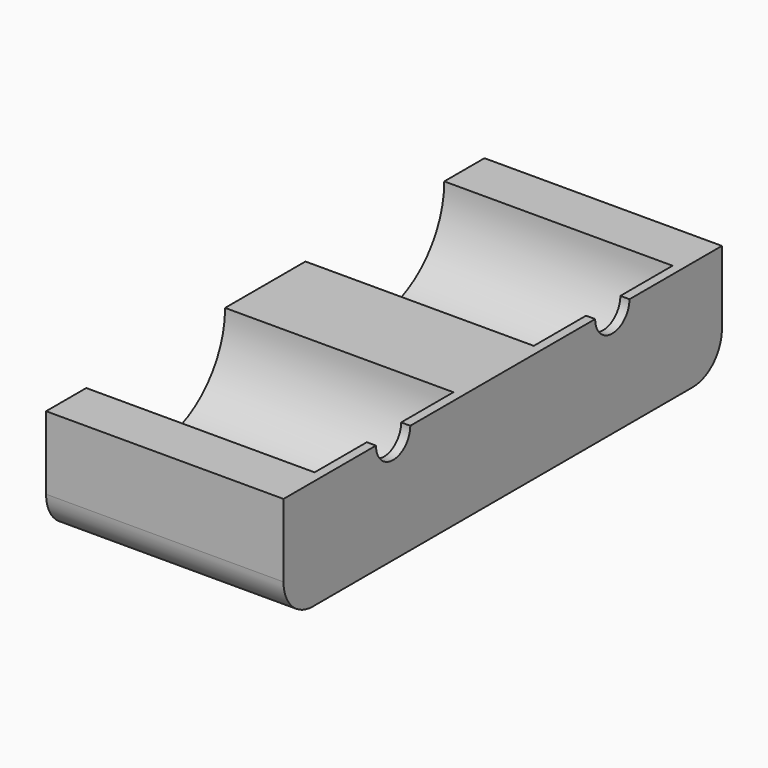
from build123d import *

# Parameters (mm, degrees)
F0_W     = 76.2
F0_H     = 15.24
F1_DEPTH = 33.02
F2_R     = 12.065
F3_DEPTH = 31.75
F4_R     = 2.9845
F5_DEPTH = 50.8
F6_R     = 5.08


with BuildPart() as f1:
    # F0 (on Right) → F1 (new body)
    with BuildSketch(Plane.YZ):
        with Locations((0, -7.62)):
            Rectangle(F0_W, F0_H)
    extrude(amount=F1_DEPTH)

    # F2 (on Right) → F3 (cut)
    with BuildSketch(Plane.YZ):
        with Locations((19.05, 0)):
            Circle(F2_R)
        with Locations((-19.05, 0)):
            Circle(F2_R)
    extrude(amount=F3_DEPTH, mode=Mode.SUBTRACT)

    # F4 (on Right) → F5 (cut)
    with BuildSketch(Plane.YZ):
        with Locations((19.05, 0)):
            Circle(F4_R)
        with Locations((-19.05, 0)):
            Circle(F4_R)
    extrude(amount=F5_DEPTH, mode=Mode.SUBTRACT)

    # F6
    f6_edges = [f1.edges().sort_by_distance(p)[0] for p in [
        (16.51, -38.1, -15.24),
        (16.51, 38.1, -15.24),
    ]]
    fillet(f6_edges, radius=F6_R)


solid = f1.part
